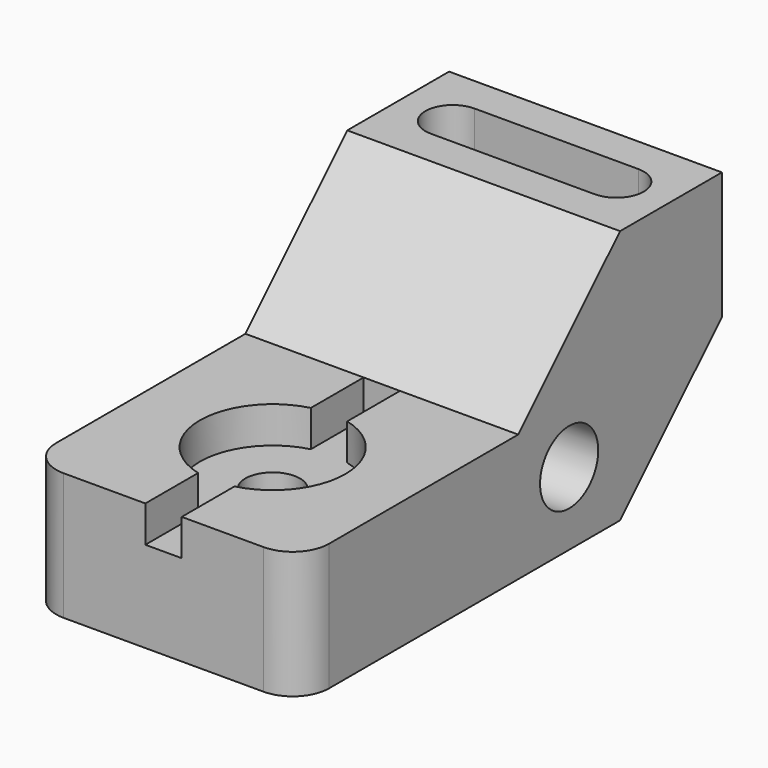
from build123d import *

# Parameters (mm, degrees)
F0_R           = 10.16
F1_DEPTH       = 76.2
F2_R           = 10.16
F4_DEPTH       = 27.94
F5_W           = 10.16
F5_H           = 76.2
F6_DEPTH       = 10.16
F7_D           = 15.24
F7_START       = 10.16
F7_CBORE_D     = 40.64
F7_CBORE_DEPTH = 0


with BuildPart() as f1:
    # F0 (on Right) → F1 (new body)
    with BuildSketch(Plane.YZ):
        Polygon((0, 35.56), (0, 0), (111.76, 0), (147.32, 35.56), (147.32, 71.12), (111.76, 71.12), (76.2, 35.56), align=None)
        with Locations((93.98, 20.32)):
            Circle(F0_R, mode=Mode.SUBTRACT)
    extrude(amount=F1_DEPTH)

    # F2
    f2_edges = [f1.edges().sort_by_distance(p)[0] for p in [
        (76.2, 0, 17.78),
        (0, 0, 17.78),
    ]]
    fillet(f2_edges, radius=F2_R)

    # F3 (on face) → F4 (cut)
    with BuildSketch(Plane.XY.offset(71.12)):
        with BuildLine():
            Line((60.96, 137.16), (15.24, 137.16))
            ThreePointArc((15.24, 137.16), (7.62, 129.54), (15.24, 121.92))
            Line((15.24, 121.92), (60.96, 121.92))
            ThreePointArc((60.96, 121.92), (68.58, 129.54), (60.96, 137.16))
        make_face()
    extrude(amount=-F4_DEPTH, mode=Mode.SUBTRACT)

    # F5 (on face) → F6 (cut)
    with BuildSketch(Plane.XY.offset(35.56)):
        with Locations((38.1, 38.1)):
            Rectangle(F5_W, F5_H)
    extrude(amount=-F6_DEPTH, mode=Mode.SUBTRACT)

    # F7 (through all)
    # its depths count from where the whole tool has entered the part; down to there all is cleared
    with Locations(Plane.XY.offset(35.56).offset(-F7_START)):
        with Locations((38.1, 38.1)):
            CounterBoreHole(F7_D / 2, F7_CBORE_D / 2, F7_CBORE_DEPTH)


solid = f1.part
